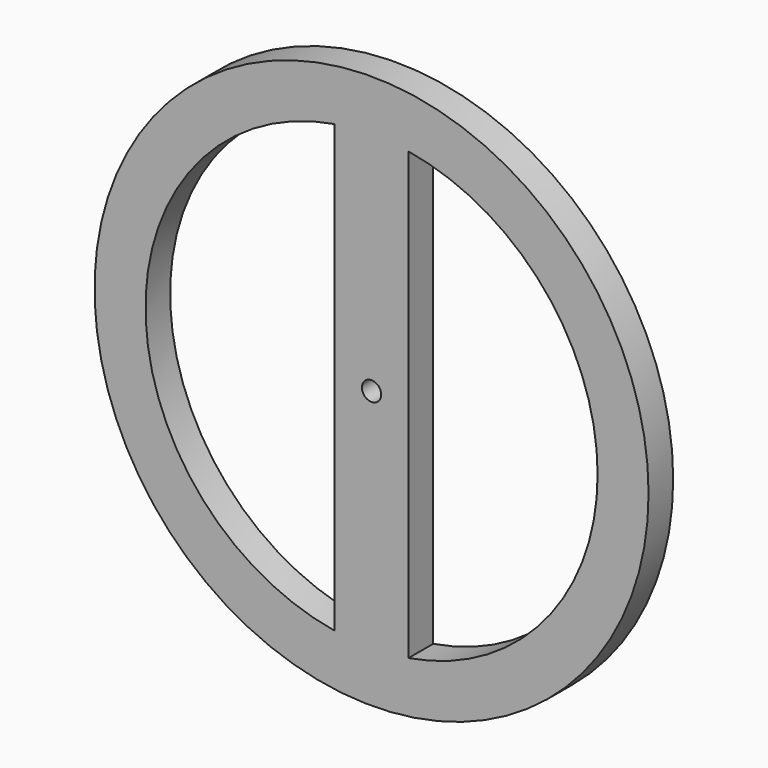
from build123d import *

# Parameters (mm, degrees)
F0_R     = 45.72
F0_R_2   = 1.5875
F1_DEPTH = 5.08


with BuildPart() as f1:
    # F0 (on Front) → F1 (new body)
    with BuildSketch(Plane.XZ):
        Circle(F0_R)
        with BuildLine():
            ThreePointArc((6.099882, 36.807123), (28.456583, 24.128732), (37.309152, 0))
            ThreePointArc((37.309152, 0), (28.456583, -24.128732), (6.099882, -36.807123))
            Line((6.099882, -36.807123), (6.099882, -41.402))
            Line((6.099882, -41.402), (-6.099882, -41.402))
            Line((-6.099882, -41.402), (-6.099882, -36.807123))
            ThreePointArc((-6.099882, -36.807123), (-37.309152, 0), (-6.099882, 36.807123))
            Line((-6.099882, 36.807123), (-6.099882, 41.402))
            Line((-6.099882, 41.402), (6.099882, 41.402))
            Line((6.099882, 41.402), (6.099882, 36.807123))
        make_face(mode=Mode.SUBTRACT)
        with BuildLine():
            Line((6.099882, -36.807123), (6.099882, 36.807123))
            ThreePointArc((6.099882, 36.807123), (0, 37.309152), (-6.099882, 36.807123))
            Line((-6.099882, 36.807123), (-6.099882, -36.807123))
            ThreePointArc((-6.099882, -36.807123), (0, -37.309152), (6.099882, -36.807123))
        make_face()
        Circle(F0_R_2, mode=Mode.SUBTRACT)
        with BuildLine():
            ThreePointArc((-6.099882, 36.807123), (0, 37.309152), (6.099882, 36.807123))
            Line((6.099882, 36.807123), (6.099882, 41.402))
            Line((6.099882, 41.402), (-6.099882, 41.402))
            Line((-6.099882, 41.402), (-6.099882, 36.807123))
        make_face()
        with BuildLine():
            Line((6.099882, -41.402), (6.099882, -36.807123))
            ThreePointArc((6.099882, -36.807123), (0, -37.309152), (-6.099882, -36.807123))
            Line((-6.099882, -36.807123), (-6.099882, -41.402))
            Line((-6.099882, -41.402), (6.099882, -41.402))
        make_face()
    extrude(amount=F1_DEPTH)


solid = f1.part
